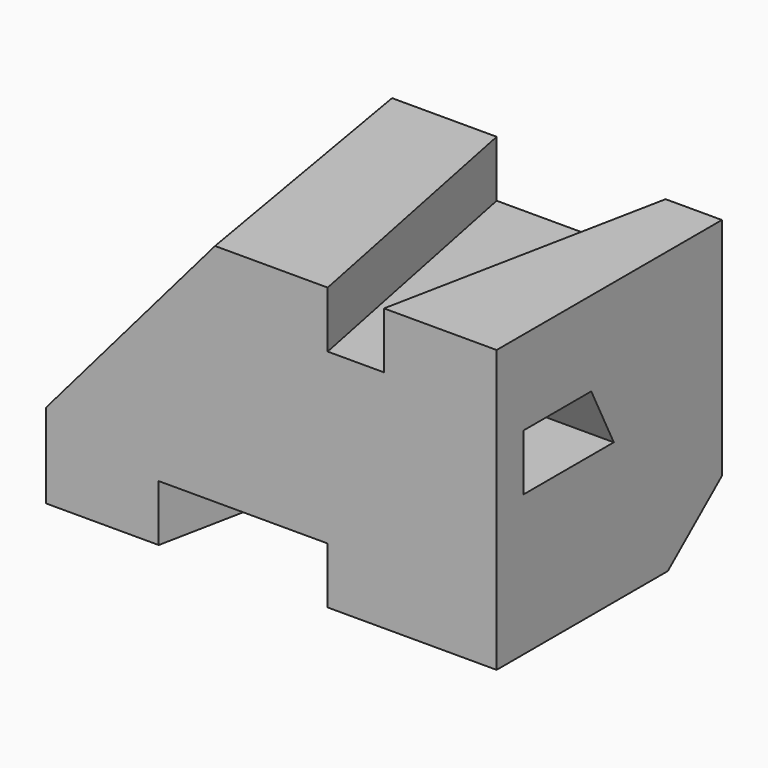
from build123d import *

# Parameters (mm, degrees)
F0_W     = 80
F0_H     = 50
F1_DEPTH = 50
F4_DEPTH = 10
F5_W     = 15
F5_H     = 10
F6_DEPTH = 25
F7_DEPTH = 10
F9_DEPTH = 10


with BuildPart() as f1:
    # F0 (on Front) → F1 (new body)
    with BuildSketch(Plane.XZ):
        with Locations((40, 25)):
            Rectangle(F0_W, F0_H)
    extrude(amount=F1_DEPTH)

    # F2 (on face) → F4 (cut)
    with BuildSketch(Plane.XY.offset(50)):
        Polygon((70, 0), (40, 0), (50, -50), (60, -50), align=None)
    extrude(amount=-F4_DEPTH, mode=Mode.SUBTRACT)

    # F5 (on face) → F6 (cut)
    with BuildSketch(Plane.YZ.offset(80)):
        with Locations((-36.5, 30)):
            Rectangle(F5_W, F5_H)
        Polygon((-29, 35), (-29, 25), (-24, 25), align=None)
    extrude(amount=-F6_DEPTH, mode=Mode.SUBTRACT)

    # F5 (on face) → F7 (cut)
    with BuildSketch(Plane.YZ.offset(80)):
        Polygon((0, 10), (-12, 0), (0, 0), align=None)
    extrude(amount=-F7_DEPTH, mode=Mode.SUBTRACT)

    # F8 (on face) → F9 (cut)
    with BuildSketch(Plane(origin=(0, 0, 0), x_dir=(1, 0, 0), z_dir=(0, 0, -1))):
        Polygon((20, 50), (30, 0), (40, 0), (50, 50), align=None)
    extrude(amount=-F9_DEPTH, mode=Mode.SUBTRACT)

    # F12: sweep along a path in F3
    with BuildLine(Plane(origin=(0, 0, 0), x_dir=(0, -1, 0), z_dir=(-1, 0, 0))) as f12_path:
        Line((50, 15), (0, 25))
    # F11 (on face) → F12 (sweep, cut)
    with BuildSketch(Plane.XZ.offset(50)):
        Polygon((0, 15), (30, 50), (0, 50), align=None)
    sweep(path=f12_path.line, mode=Mode.SUBTRACT)


solid = f1.part
